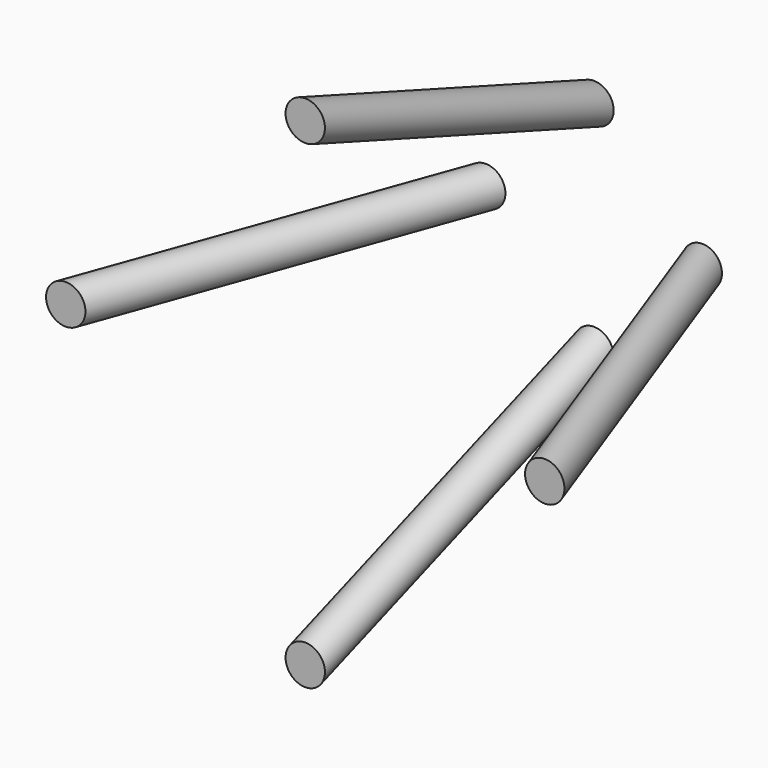
from build123d import *

# Parameters (mm, degrees)
F6_R      = 0.45
F8_R      = 0.3
F10_COUNT = 4


with BuildPart() as f1:
    # F0 (on Top) → F1 (revolve)
    with BuildSketch(Plane.XY):
        Polygon((-3.2, 0), (-1.2, 0), (-1.2, 5.5), align=None)
    revolve(axis=Axis((0, 2.75, 0), (0, -1, 0)))


with BuildPart() as f7:
    # F7: sweep along a path in F4
    with BuildLine(Plane.XY) as f7_path:
        Line((-3.2, 0), (-1.2, 5.5))
    # F6 (on line) → F7 (sweep)
    with BuildSketch(Plane.XZ):
        with Locations((-3.65, 0)):
            Circle(F6_R)
    sweep(path=f7_path.line)


with BuildPart() as f9:
    # F9: sweep along a path in F0
    with BuildLine(Plane.XY) as f9_path:
        Line((-1.2, 5.5), (-3.2, 0))
    # F8 (on face) → F9 (sweep)
    with BuildSketch(Plane.XZ):
        with Locations((-3.65, 0)):
            Circle(F8_R)
    sweep(path=f9_path.line)


with BuildPart() as f10_1:
    # F10: instance of F9
    add(f9.part.rotate(Axis((0, 0, 0), (0, -1, 0)), 1 * 360 / F10_COUNT))


with BuildPart() as f10_2:
    # F10: instance of F9
    add(f9.part.rotate(Axis((0, 0, 0), (0, -1, 0)), 2 * 360 / F10_COUNT))


with BuildPart() as f10_3:
    # F10: instance of F9
    add(f9.part.rotate(Axis((0, 0, 0), (0, -1, 0)), 3 * 360 / F10_COUNT))


with BuildPart() as f10_4:
    # F10: instance of F7
    add(f7.part.rotate(Axis((0, 0, 0), (0, -1, 0)), 1 * 360 / F10_COUNT))


with BuildPart() as f10_5:
    # F10: instance of F7
    add(f7.part.rotate(Axis((0, 0, 0), (0, -1, 0)), 2 * 360 / F10_COUNT))


with BuildPart() as f10_6:
    # F10: instance of F7
    add(f7.part.rotate(Axis((0, 0, 0), (0, -1, 0)), 3 * 360 / F10_COUNT))


solid = Compound([f9.part, f10_1.part, f10_2.part, f10_3.part])
